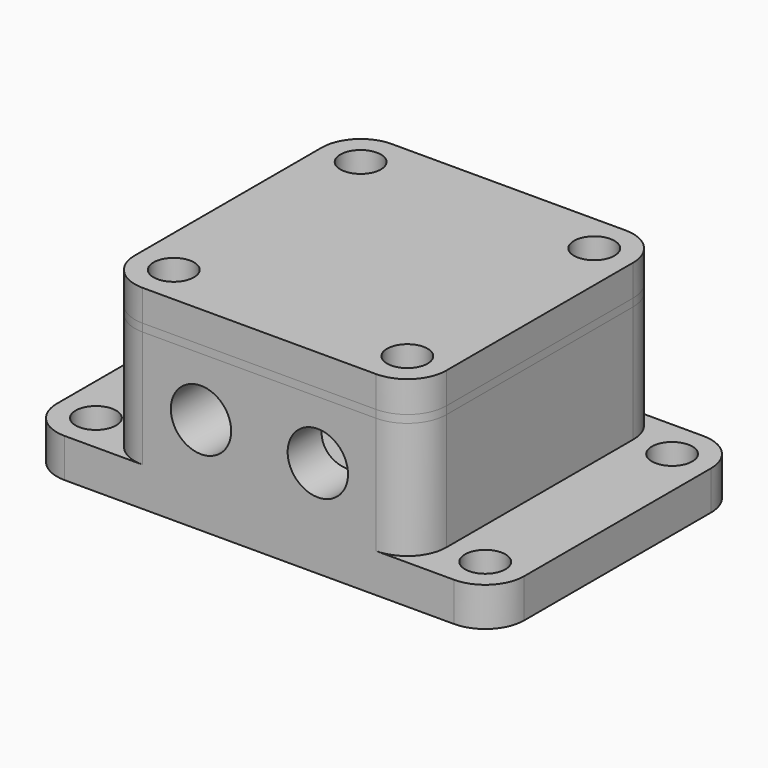
from build123d import *

# Parameters (mm, degrees)
F0_W      = 60
F0_H      = 40
F1_DEPTH  = 5
F2_R      = 5
F3_W      = 40
F3_H      = 40
F3_R      = 15
F3_R_2    = 2.5
F4_DEPTH  = 15
F5_R      = 5
F6_R      = 2.6
F7_DEPTH  = 25
F8_R      = 2.1
F9_DEPTH  = 10
F10_R     = 3.875
F11_DEPTH = 25
F12_R     = 2.6
F12_R_2   = 15
F13_DEPTH = 1
F14_R     = 2.6
F15_DEPTH = 4


with BuildPart() as f1:
    # F0 (on Top) → F1 (new body)
    with BuildSketch(Plane.XY):
        Rectangle(F0_W, F0_H)
    extrude(amount=F1_DEPTH)

    # F2
    f2_edges = [f1.edges().sort_by_distance(p)[0] for p in [
        (-30, 20, 2.5),
        (-30, -20, 2.5),
        (30, -20, 2.5),
        (30, 20, 2.5),
    ]]
    fillet(f2_edges, radius=F2_R)

    # F3 (on face) → F4 (join)
    with BuildSketch(Plane.XY.offset(5)):
        Rectangle(F3_W, F3_H)
        Circle(F3_R, mode=Mode.SUBTRACT)
        Circle(F3_R_2)
    extrude(amount=F4_DEPTH)

    # F5
    f5_edges = [f1.edges().sort_by_distance(p)[0] for p in [
        (-20, 20, 12.5),
        (-20, -20, 12.5),
        (20, -20, 12.5),
        (20, 20, 12.5),
    ]]
    fillet(f5_edges, radius=F5_R)

    # F6 (on face) → F7 (cut)
    with BuildSketch(Plane.XY.offset(5)):
        with Locations((-25, 15)):
            Circle(F6_R)
        with Locations((-25, -15)):
            Circle(F6_R)
        with Locations((25, 15)):
            Circle(F6_R)
        with Locations((25, -15)):
            Circle(F6_R)
    extrude(amount=-F7_DEPTH, mode=Mode.SUBTRACT)

    # F8 (on face) → F9 (cut)
    with BuildSketch(Plane.XY.offset(20)):
        with Locations((-15, 15)):
            Circle(F8_R)
        with Locations((-15, -15)):
            Circle(F8_R)
        with Locations((15, 15)):
            Circle(F8_R)
        with Locations((15, -15)):
            Circle(F8_R)
    extrude(amount=-F9_DEPTH, mode=Mode.SUBTRACT)

    # F10 (on face) → F11 (cut)
    with BuildSketch(Plane.XZ.offset(20)):
        with Locations((-7.5, 12.5)):
            Circle(F10_R)
        with Locations((7.5, 12.5)):
            Circle(F10_R)
    extrude(amount=-F11_DEPTH, mode=Mode.SUBTRACT)


with BuildPart() as f13:
    # F12 (on face) → F13 (new body)
    with BuildSketch(Plane.XY.offset(20)):
        with BuildLine():
            ThreePointArc((20, 15), (18.5355339059, 18.5355339059), (15, 20))
            Line((15, 20), (-15, 20))
            ThreePointArc((-15, 20), (-18.5355339059, 18.5355339059), (-20, 15))
            Line((-20, 15), (-20, -15))
            ThreePointArc((-20, -15), (-18.5355339059, -18.5355339059), (-15, -20))
            Line((-15, -20), (15, -20))
            ThreePointArc((15, -20), (18.5355339059, -18.5355339059), (20, -15))
            Line((20, -15), (20, 15))
        make_face()
        with Locations((-15, -15)):
            Circle(F12_R, mode=Mode.SUBTRACT)
        with Locations((15, -15)):
            Circle(F12_R, mode=Mode.SUBTRACT)
        with Locations((-15, 15)):
            Circle(F12_R, mode=Mode.SUBTRACT)
        Circle(F12_R_2, mode=Mode.SUBTRACT)
        with Locations((15, 15)):
            Circle(F12_R, mode=Mode.SUBTRACT)
    extrude(amount=F13_DEPTH)


with BuildPart() as f15:
    # F14 (on face) → F15 (new body)
    with BuildSketch(Plane.XY.offset(21)):
        with BuildLine():
            Line((20, -15), (20, 15))
            ThreePointArc((20, 15), (18.5355339059, 18.5355339059), (15, 20))
            Line((15, 20), (-15, 20))
            ThreePointArc((-15, 20), (-18.5355339059, 18.5355339059), (-20, 15))
            Line((-20, 15), (-20, -15))
            ThreePointArc((-20, -15), (-18.5355339059, -18.5355339059), (-15, -20))
            Line((-15, -20), (15, -20))
            ThreePointArc((15, -20), (18.5355339059, -18.5355339059), (20, -15))
        make_face()
        with Locations((-15, -15)):
            Circle(F14_R, mode=Mode.SUBTRACT)
        with Locations((15, -15)):
            Circle(F14_R, mode=Mode.SUBTRACT)
        with Locations((-15, 15)):
            Circle(F14_R, mode=Mode.SUBTRACT)
        with Locations((15, 15)):
            Circle(F14_R, mode=Mode.SUBTRACT)
    extrude(amount=F15_DEPTH)


solid = Compound([f1.part, f13.part, f15.part])
